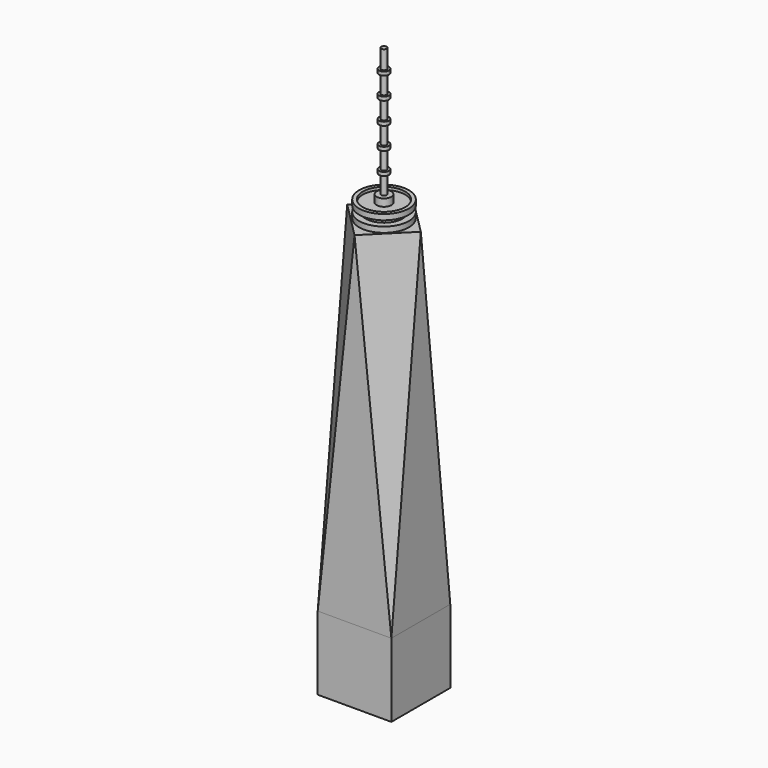
from build123d import *

# Parameters (mm, degrees)
F18_R     = 8.5725
F18_R_2   = 6.35
F19_DEPTH = 1.905
F20_DEPTH = 3.81
F21_R     = 7.3025
F21_R_2   = 6.35
F22_DEPTH = 0.9525
F21_R_3   = 8.5725
F23_DEPTH = 1.905
F24_R     = 2.54
F25_DEPTH = 2.54
F26_R     = 0.9525
F27_DEPTH = 6.35
F28_R     = 1.7145
F28_R_2   = 0.9525
F29_DEPTH = 1.27
F30_DEPTH = 7.62
F31_R     = 1.7145
F31_R_2   = 0.9525
F32_DEPTH = 1.27
F33_DEPTH = 7.62
F34_R     = 1.7145
F34_R_2   = 0.9525
F35_DEPTH = 1.27
F36_DEPTH = 7.62
F37_R     = 1.7145
F37_R_2   = 0.9525
F38_DEPTH = 1.27
F39_DEPTH = 7.62
F40_R     = 1.7145
F40_R_2   = 0.9525
F41_DEPTH = 1.27
F42_DEPTH = 7.62
F43_DEPTH = 12.7
F44_DEPTH = 12.7
F45_DEPTH = 12.7
F46_DEPTH = 12.7
F47_DEPTH = 25.4
F48_DEPTH = 25.4
F49_DEPTH = 118.2624
F15_W     = 25.4
F15_H     = 25.4
F50_DEPTH = 25.4


with BuildPart() as f19:
    # F18 (on face) → F19 (new body)
    with BuildSketch(Plane.XY.offset(57.0310650853)):
        with Locations((-12.7000000462, -12.7)):
            Circle(F18_R)
        with Locations((-12.7000000462, -12.7)):
            Circle(F18_R_2, mode=Mode.SUBTRACT)
    extrude(amount=F19_DEPTH)

    # F18 (on face) → F20 (join)
    with BuildSketch(Plane.XY.offset(57.0310650853)):
        with Locations((-12.7000000462, -12.7)):
            Circle(F18_R_2)
    extrude(amount=F20_DEPTH)

    # F21 (on face) → F22 (join)
    with BuildSketch(Plane.XY.offset(60.8410650853)):
        with Locations((-12.7000000462, -12.7)):
            Circle(F21_R)
        with Locations((-12.7000000462, -12.7)):
            Circle(F21_R_2, mode=Mode.SUBTRACT)
        with Locations((-12.7000000462, -12.7)):
            Circle(F21_R_2)
    extrude(amount=F22_DEPTH)

    # F21 (on face) → F23 (join)
    with BuildSketch(Plane.XY.offset(60.8410650853)):
        with Locations((-12.7000000462, -12.7)):
            Circle(F21_R_3)
        with Locations((-12.7000000462, -12.7)):
            Circle(F21_R, mode=Mode.SUBTRACT)
    extrude(amount=F23_DEPTH)

    # F24 (on face) → F25 (join)
    with BuildSketch(Plane.XY.offset(61.7935650853)):
        with Locations((-12.7000000462, -12.7)):
            Circle(F24_R)
    extrude(amount=F25_DEPTH)

    # F26 (on face) → F27 (join)
    with BuildSketch(Plane.XY.offset(64.3335650853)):
        with Locations((-12.7000000462, -12.7)):
            Circle(F26_R)
    extrude(amount=F27_DEPTH)


with BuildPart() as f29:
    # F28 (on face) → F29 (new body)
    with BuildSketch(Plane.XY.offset(70.6835650853)):
        with Locations((-12.7000000462, -12.7)):
            Circle(F28_R)
        with Locations((-12.7000000462, -12.7)):
            Circle(F28_R_2, mode=Mode.SUBTRACT)
    extrude(amount=F29_DEPTH)


with BuildPart() as f30:
    # F30 (new): a face of the model
    f30_faces = [f19.part.faces().sort_by_distance(p)[0] for p in [
        (-12.7000000462, -12.7, 70.6835650853),
    ]]
    extrude(f30_faces, amount=F30_DEPTH)


with BuildPart() as f32:
    # F31 (on face) → F32 (new body)
    with BuildSketch(Plane.XY.offset(78.3035650853)):
        with Locations((-12.7000000462, -12.7)):
            Circle(F31_R)
        with Locations((-12.7000000462, -12.7)):
            Circle(F31_R_2, mode=Mode.SUBTRACT)
    extrude(amount=F32_DEPTH)


with BuildPart() as f33:
    # F33 (new): a face of the model
    f33_faces = [f30.part.faces().sort_by_distance(p)[0] for p in [
        (-12.7000000462, -12.7, 78.3035650853),
    ]]
    extrude(f33_faces, amount=F33_DEPTH)


with BuildPart() as f35:
    # F34 (on face) → F35 (new body)
    with BuildSketch(Plane.XY.offset(85.9235650853)):
        with Locations((-12.7000000462, -12.7)):
            Circle(F34_R)
        with Locations((-12.7000000462, -12.7)):
            Circle(F34_R_2, mode=Mode.SUBTRACT)
    extrude(amount=F35_DEPTH)


with BuildPart() as f36:
    # F36 (new): a face of the model
    f36_faces = [f33.part.faces().sort_by_distance(p)[0] for p in [
        (-12.7000000462, -12.7, 85.9235650853),
    ]]
    extrude(f36_faces, amount=F36_DEPTH)


with BuildPart() as f38:
    # F37 (on face) → F38 (new body)
    with BuildSketch(Plane.XY.offset(93.5435650853)):
        with Locations((-12.7000000462, -12.7)):
            Circle(F37_R)
        with Locations((-12.7000000462, -12.7)):
            Circle(F37_R_2, mode=Mode.SUBTRACT)
    extrude(amount=F38_DEPTH)


with BuildPart() as f39:
    # F39 (new): a face of the model
    f39_faces = [f36.part.faces().sort_by_distance(p)[0] for p in [
        (-12.7000000462, -12.7, 93.5435650853),
    ]]
    extrude(f39_faces, amount=F39_DEPTH)


with BuildPart() as f41:
    # F40 (on face) → F41 (new body)
    with BuildSketch(Plane.XY.offset(101.1635650853)):
        with Locations((-12.7000000462, -12.7)):
            Circle(F40_R)
        with Locations((-12.7000000462, -12.7)):
            Circle(F40_R_2, mode=Mode.SUBTRACT)
    extrude(amount=F41_DEPTH)


with BuildPart() as f42:
    # F42 (new): a face of the model
    f42_faces = [f39.part.faces().sort_by_distance(p)[0] for p in [
        (-12.7000000462, -12.7, 101.1635650853),
    ]]
    extrude(f42_faces, amount=F42_DEPTH)


with BuildPart() as f43:
    # F3 (on face) → F43 (new body)
    with BuildSketch(Plane(origin=(-3.2689159971, -3.2689159971, -0.3510433846), x_dir=(-0.7091308298, 0.7010461896, 0.0752841698), z_dir=(0.7050769222, 0.7050769222, 0.0757170234))):
        Polygon((13.2994979292, 56.7050340318), (-4.6097502176, 58.0610689933), (-4.6097502176, -60.8812920634), align=None)
    extrude(amount=-F43_DEPTH)

    # F11 (on face) → F44 (join)
    with BuildSketch(Plane(origin=(-21.9854641777, -21.9854640177, 2.3609819607), x_dir=(0.7091308273, -0.7010461922, 0.0752841701), z_dir=(-0.7050769248, -0.7050769196, 0.0757170232))):
        Polygon((13.0941481152, 53.9929641088), (-4.815099966, 55.3489990703), (-4.815099966, -63.5933619865), align=None)
    extrude(amount=-F44_DEPTH)

    # F7 (on face) → F45 (join)
    with BuildSketch(Plane(origin=(-9.3582740439, 9.3582740439, 1.0049692917), x_dir=(-0.7091308298, -0.7010461896, -0.0752841698), z_dir=(-0.7050769222, 0.7050769222, 0.0757170234))):
        Polygon((22.6216732953, 58.0610689933), (4.7124251485, 56.7050340318), (22.6216732953, -60.8812920634), align=None)
    extrude(amount=-F45_DEPTH)

    # F13 (on face) → F46 (join)
    with BuildSketch(Plane(origin=(9.3582740435, -9.3582741116, 1.0049692989), x_dir=(-0.7091308324, -0.701046187, 0.0752841696), z_dir=(-0.7050769196, 0.7050769247, -0.0757170237))):
        Polygon((13.19682295, -63.5933619865), (31.1060711623, 53.9929641088), (13.19682295, 55.3489990703), align=None)
    extrude(amount=F46_DEPTH)


with BuildPart() as f47:
    # F9 (on face) → F47 (new body)
    with BuildSketch(Plane.XZ.offset(25.4)):
        Polygon((-12.7000000924, 57.0310650853), (-25.4, -61.2313349147), (0, -61.2313349147), align=None)
    extrude(amount=-F47_DEPTH)


with BuildPart() as f48:
    # F0 (on Right) → F48 (new body)
    with BuildSketch(Plane.YZ):
        Polygon((-25.4, -61.2313349147), (0, -61.2313349147), (-12.7, 57.0310650853), align=None)
    extrude(amount=-F48_DEPTH)


with BuildPart() as f49:
    # F17 (on 3pt) → F49 (new body)
    with BuildSketch(Plane.XY.offset(57.0310650853)):
        Polygon((0, -12.7), (-12.7, 0), (-25.4, -12.7), (-12.7000000924, -25.4), align=None)
    extrude(amount=-F49_DEPTH)


with BuildPart() as f50:
    # F15 (on face) → F50 (new body)
    with BuildSketch(Plane.XY.offset(-86.6313349147)):
        with Locations((-12.7, -12.7)):
            Rectangle(F15_W, F15_H)
    extrude(amount=F50_DEPTH)


solid = Compound([f19.part, f29.part, f30.part, f32.part, f33.part, f35.part, f36.part, f38.part, f39.part, f41.part, f42.part, f43.part, f47.part, f48.part, f49.part, f50.part])
